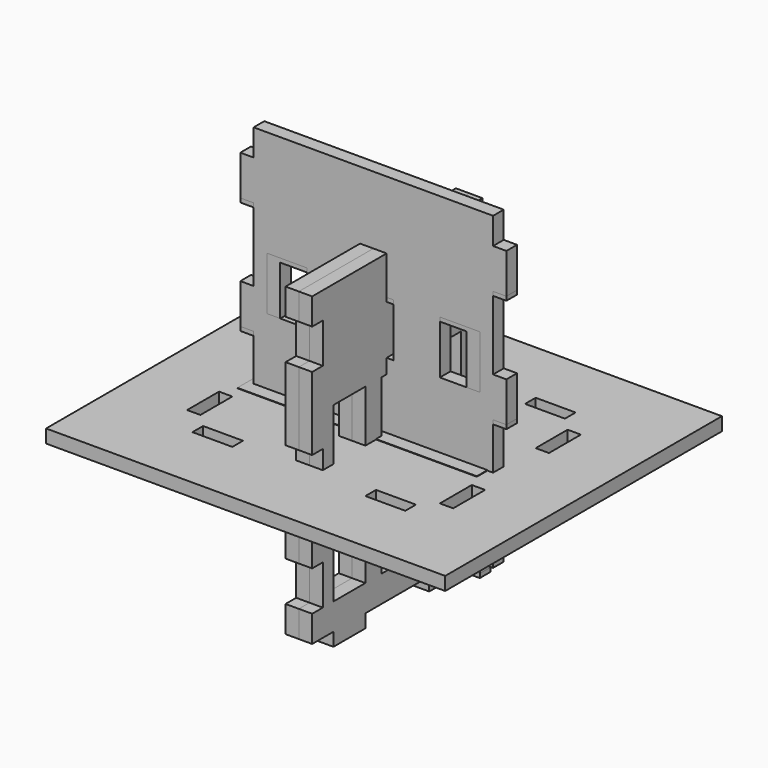
from build123d import *

# Parameters (mm, degrees)
F0_W     = 190.5
F0_H     = 165.1
F0_W_2   = 63.5
F0_H_2   = 6.35
F0_W_3   = 6.35
F0_H_3   = 38.1
F1_DEPTH = 6.35
F2_W     = 19.05
F2_H     = 25.4
F2_H_2   = 6.35
F3_DEPTH = 6.35
F4_W     = 19.05
F4_H     = 6.35
F4_H_2   = 25.4
F5_DEPTH = 6.35
F6_W     = 114.3
F6_H     = 6.35
F7_DEPTH = 12.7
F8_W     = 19.05
F8_H     = 6.35
F8_W_2   = 6.35
F8_H_2   = 12.7
F8_H_3   = 25.4
F8_H_4   = 28.575
F8_H_5   = 34.925
F9_DEPTH = 6.35


with BuildPart() as f1:
    # F0 (on Top) → F1 (new body)
    with BuildSketch(Plane.XY):
        Rectangle(F0_W, F0_H)
        Polygon((50.8, 50.8), (63.5, 50.8), (63.5, 44.45), (63.5, 38.1), (63.5, 19.05), (63.5, -19.05), (63.5, -38.1), (63.5, -44.45), (63.5, -50.8), (50.8, -50.8), (31.75, -50.8), (-31.75, -50.8), (-50.8, -50.8), (-63.5, -50.8), (-63.5, -44.45), (-63.5, -38.1), (-63.5, -19.05), (-63.5, 19.05), (-63.5, 38.1), (-63.5, 44.45), (-63.5, 50.8), (-50.8, 50.8), (-31.75, 50.8), (31.75, 50.8), align=None, mode=Mode.SUBTRACT)
        Polygon((57.15, 44.45), (50.8, 44.45), (31.75, 44.45), (-31.75, 44.45), (-50.8, 44.45), (-57.15, 44.45), (-57.15, 38.1), (-57.15, 19.05), (-57.15, -19.05), (-57.15, -38.1), (-57.15, -44.45), (-50.8, -44.45), (-31.75, -44.45), (31.75, -44.45), (50.8, -44.45), (57.15, -44.45), (57.15, -38.1), (57.15, -19.05), (57.15, 19.05), (57.15, 38.1), align=None)
        with Locations((0, 47.625)):
            Rectangle(F0_W_2, F0_H_2)
        with Locations((0, -47.625)):
            Rectangle(F0_W_2, F0_H_2)
        with Locations((60.325, 0)):
            Rectangle(F0_W_3, F0_H_3)
        with Locations((-60.325, 0)):
            Rectangle(F0_W_3, F0_H_3)
        Polygon((63.5, 44.45), (63.5, 50.8), (50.8, 50.8), (50.8, 44.45), (57.15, 44.45), align=None)
        Polygon((-50.8, 44.45), (-50.8, 50.8), (-63.5, 50.8), (-63.5, 44.45), (-57.15, 44.45), align=None)
        Polygon((-57.15, -44.45), (-63.5, -44.45), (-63.5, -50.8), (-50.8, -50.8), (-50.8, -44.45), align=None)
        Polygon((63.5, -50.8), (63.5, -44.45), (57.15, -44.45), (50.8, -44.45), (50.8, -50.8), align=None)
        with Locations((60.325, -41.275)):
            Rectangle(F0_W_3, F0_H_2)
        with Locations((60.325, 41.275)):
            Rectangle(F0_W_3, F0_H_2)
        with Locations((-60.325, -41.275)):
            Rectangle(F0_W_3, F0_H_2)
        with Locations((-60.325, 41.275)):
            Rectangle(F0_W_3, F0_H_2)
    extrude(amount=F1_DEPTH)


with BuildPart() as f3:
    # F2 (on Front) → F3 (new body)
    with BuildSketch(Plane.XZ):
        Polygon((57.15, 112.395), (-57.15, 112.395), (-57.15, 99.695), (-63.5, 99.695), (-63.5, 80.645), (-57.15, 80.645), (-57.15, 45.72), (-63.5, 45.72), (-63.5, 26.67), (-57.15, 26.67), (-57.15, -1.905), (-63.5, -1.905), (-63.5, -20.955), (-57.15, -20.955), (-57.15, -33.655), (-50.8, -33.655), (-31.75, -33.655), (-15.24, -33.655), (-15.24, 4.445), (15.24, 4.445), (15.24, -33.655), (31.75, -33.655), (50.8, -33.655), (57.15, -33.655), (57.15, -20.955), (63.5, -20.955), (63.5, -1.905), (57.15, -1.905), (57.15, 26.67), (63.5, 26.67), (63.5, 45.72), (57.15, 45.72), (57.15, 80.645), (63.5, 80.645), (63.5, 99.695), (57.15, 99.695), align=None)
        with Locations((-34.925, 48.895)):
            Rectangle(F2_W, F2_H, mode=Mode.SUBTRACT)
        with Locations((0, 48.895)):
            Rectangle(F2_W, F2_H, mode=Mode.SUBTRACT)
        with Locations((34.925, 48.895)):
            Rectangle(F2_W, F2_H, mode=Mode.SUBTRACT)
        with Locations((41.275, -36.83)):
            Rectangle(F2_W, F2_H_2)
        with Locations((-41.275, -36.83)):
            Rectangle(F2_W, F2_H_2)
    extrude(amount=F3_DEPTH)


with BuildPart() as f5:
    # F4 (on Front) → F5 (new body)
    with BuildSketch(Plane.XZ):
        with Locations((-41.275, -34.925)):
            Rectangle(F4_W, F4_H)
        with Locations((41.275, -34.925)):
            Rectangle(F4_W, F4_H)
        Polygon((57.15, 114.3), (-57.15, 114.3), (-57.15, 101.6), (-63.5, 101.6), (-63.5, 82.55), (-57.15, 82.55), (-57.15, 47.625), (-63.5, 47.625), (-63.5, 28.575), (-57.15, 28.575), (-57.15, 0), (-63.5, 0), (-63.5, -19.05), (-57.15, -19.05), (-57.15, -31.75), (-50.8, -31.75), (-31.75, -31.75), (31.75, -31.75), (50.8, -31.75), (57.15, -31.75), (57.15, -19.05), (63.5, -19.05), (63.5, 0), (57.15, 0), (57.15, 28.575), (63.5, 28.575), (63.5, 47.625), (57.15, 47.625), (57.15, 82.55), (63.5, 82.55), (63.5, 101.6), (57.15, 101.6), align=None)
        with Locations((-41.275, 50.8)):
            Rectangle(F4_W, F4_H_2, mode=Mode.SUBTRACT)
        with Locations((0, 50.8)):
            Rectangle(F4_W, F4_H_2, mode=Mode.SUBTRACT)
        with Locations((41.275, 50.8)):
            Rectangle(F4_W, F4_H_2, mode=Mode.SUBTRACT)
    extrude(amount=F5_DEPTH)


with BuildPart() as f7:
    # F6 (on Front) → F7 (new body)
    with BuildSketch(Plane.XZ):
        with Locations((-2.6898380205, 3.3897644177)):
            Rectangle(F6_W, F6_H)
    extrude(amount=F7_DEPTH)


with BuildPart() as f9:
    # F8 (on Right) → F9 (new body)
    with BuildSketch(Plane.YZ):
        with Locations((-28.575, -67.2533320785)):
            Rectangle(F8_W, F8_H)
        with Locations((28.575, -67.2533320785)):
            Rectangle(F8_W, F8_H)
        with Locations((-47.625, 75.6216679215)):
            Rectangle(F8_W_2, F8_H_2)
        Polygon((44.45, 81.9716679215), (-44.45, 81.9716679215), (-44.45, 69.2716679215), (-44.45, 50.2216679215), (-44.45, 15.2966679215), (-44.45, -3.7533320785), (-44.45, -32.3283320785), (-44.45, -51.3783320785), (-44.45, -64.0783320785), (-38.1, -64.0783320785), (-19.05, -64.0783320785), (19.05, -64.0783320785), (38.1, -64.0783320785), (44.45, -64.0783320785), (44.45, -51.3783320785), (44.45, -32.3283320785), (44.45, -3.7533320785), (44.45, 15.2966679215), (44.45, 50.2216679215), (44.45, 69.2716679215), align=None)
        with Locations((-28.575, -38.6783320785)):
            Rectangle(F8_W, F8_H_3, mode=Mode.SUBTRACT)
        with Locations((0, -38.6783320785)):
            Rectangle(F8_W, F8_H_3, mode=Mode.SUBTRACT)
        with Locations((28.575, -38.6783320785)):
            Rectangle(F8_W, F8_H_3, mode=Mode.SUBTRACT)
        with Locations((-28.575, 18.4716679215)):
            Rectangle(F8_W, F8_H_3, mode=Mode.SUBTRACT)
        with Locations((0, 18.4716679215)):
            Rectangle(F8_W, F8_H_3, mode=Mode.SUBTRACT)
        with Locations((28.575, 18.4716679215)):
            Rectangle(F8_W, F8_H_3, mode=Mode.SUBTRACT)
        with Locations((47.625, 75.6216679215)):
            Rectangle(F8_W_2, F8_H_2)
        Polygon((44.45, 81.9716679215), (-44.45, 81.9716679215), (-44.45, 69.2716679215), (-44.45, 50.2216679215), (-44.45, 15.2966679215), (-44.45, -3.7533320785), (-44.45, -32.3283320785), (-44.45, -51.3783320785), (-44.45, -64.0783320785), (-38.1, -64.0783320785), (-19.05, -64.0783320785), (19.05, -64.0783320785), (38.1, -64.0783320785), (44.45, -64.0783320785), (44.45, -51.3783320785), (44.45, -32.3283320785), (44.45, -3.7533320785), (44.45, 15.2966679215), (44.45, 50.2216679215), (44.45, 69.2716679215), align=None)
        with Locations((-28.575, -38.6783320785)):
            Rectangle(F8_W, F8_H_3, mode=Mode.SUBTRACT)
        with Locations((0, -38.6783320785)):
            Rectangle(F8_W, F8_H_3, mode=Mode.SUBTRACT)
        with Locations((28.575, -38.6783320785)):
            Rectangle(F8_W, F8_H_3, mode=Mode.SUBTRACT)
        with Locations((-28.575, 18.4716679215)):
            Rectangle(F8_W, F8_H_3, mode=Mode.SUBTRACT)
        with Locations((0, 18.4716679215)):
            Rectangle(F8_W, F8_H_3, mode=Mode.SUBTRACT)
        with Locations((28.575, 18.4716679215)):
            Rectangle(F8_W, F8_H_3, mode=Mode.SUBTRACT)
        Polygon((44.45, 81.9716679215), (-44.45, 81.9716679215), (-44.45, 69.2716679215), (-44.45, 50.2216679215), (-44.45, 15.2966679215), (-44.45, -3.7533320785), (-44.45, -32.3283320785), (-44.45, -51.3783320785), (-44.45, -64.0783320785), (-38.1, -64.0783320785), (-19.05, -64.0783320785), (19.05, -64.0783320785), (38.1, -64.0783320785), (44.45, -64.0783320785), (44.45, -51.3783320785), (44.45, -32.3283320785), (44.45, -3.7533320785), (44.45, 15.2966679215), (44.45, 50.2216679215), (44.45, 69.2716679215), align=None)
        with Locations((-28.575, -38.6783320785)):
            Rectangle(F8_W, F8_H_3, mode=Mode.SUBTRACT)
        with Locations((0, -38.6783320785)):
            Rectangle(F8_W, F8_H_3, mode=Mode.SUBTRACT)
        with Locations((28.575, -38.6783320785)):
            Rectangle(F8_W, F8_H_3, mode=Mode.SUBTRACT)
        with Locations((-28.575, 18.4716679215)):
            Rectangle(F8_W, F8_H_3, mode=Mode.SUBTRACT)
        with Locations((0, 18.4716679215)):
            Rectangle(F8_W, F8_H_3, mode=Mode.SUBTRACT)
        with Locations((28.575, 18.4716679215)):
            Rectangle(F8_W, F8_H_3, mode=Mode.SUBTRACT)
        with Locations((47.625, -18.0408320785)):
            Rectangle(F8_W_2, F8_H_4)
        with Locations((47.625, -57.7283320785)):
            Rectangle(F8_W_2, F8_H_2)
        with Locations((47.625, 32.7591679215)):
            Rectangle(F8_W_2, F8_H_5)
        with Locations((-47.625, -57.7283320785)):
            Rectangle(F8_W_2, F8_H_2)
        with Locations((-47.625, -18.0408320785)):
            Rectangle(F8_W_2, F8_H_4)
        with Locations((-47.625, 32.7591679215)):
            Rectangle(F8_W_2, F8_H_5)
    extrude(amount=F9_DEPTH)


with BuildPart() as f10_1:
    # F10: instance of F9
    add(f9.part.mirror(Plane.YZ))


solid = Compound([f1.part, f3.part, f5.part, f7.part, f9.part, f10_1.part])
